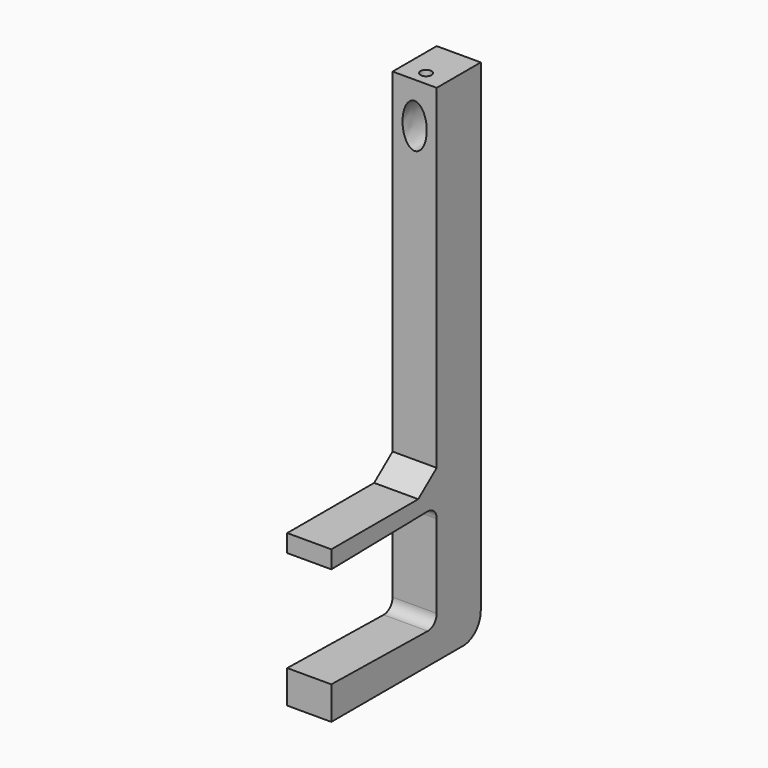
from build123d import *

# Parameters (mm, degrees)
F1_DEPTH = 20
F2_R     = 5
F4_DEPTH = 15
F6_D     = 5
F6_DEPTH = 12


with BuildPart() as f1:
    # F0 (on Right) → F1 (new body)
    with BuildSketch(Plane.YZ):
        with BuildLine():
            Line((-38.467346, 25.759617), (-38.467346, 17.759617))
            Line((-38.467346, 17.759617), (21.27099, 18.802353))
            Line((21.27099, 18.802353), (21.27099, -29.197647))
            Line((21.27099, -29.197647), (-38.467346, -28.15491))
            Line((-38.467346, -28.15491), (-38.467346, -43.15491))
            Line((-38.467346, -43.15491), (36.27099, -43.15491))
            ThreePointArc((36.27099, -43.15491), (43.342058, -40.225978), (46.27099, -33.15491))
            Line((46.27099, -33.15491), (46.27099, 185.759617))
            Line((46.27099, 185.759617), (21.27099, 185.759617))
            Line((21.27099, 185.759617), (21.27099, 34.016647))
            Line((21.27099, 34.016647), (10.807667, 25.759617))
            Line((10.807667, 25.759617), (-38.467346, 25.759617))
        make_face()
    extrude(amount=F1_DEPTH)

    # F2
    f2_edges = [f1.edges().sort_by_distance(p)[0] for p in [
        (10, 21.27099, 18.802353),
        (10, 21.27099, -29.197647),
    ]]
    fillet(f2_edges, radius=F2_R)

    # F3 (on face) → F4 (cut)
    with BuildSketch(Plane.XZ.offset(-21.27099)):
        with BuildLine():
            add(Edge.make_bspline(
                [(10, 157.308986), (19.526279, 157.308986), (14.76314, 172.308986), (10, 187.308986), (5.23686, 172.308986), (0.473721, 157.308986), (10, 157.308986)],
                knots=[0, 0, 0, 2.094395, 2.094395, 4.18879, 4.18879, 6.283185, 6.283185, 6.283185], degree=2, weights=[1, 0.5, 1, 0.5, 1, 0.5, 1]))
        make_face()
    extrude(amount=-F4_DEPTH, mode=Mode.SUBTRACT)

    # F6
    with Locations(Plane.XY.offset(185.759617)):
        with Locations((10, 27.77099)):
            Hole(F6_D / 2, depth=F6_DEPTH)


solid = f1.part
